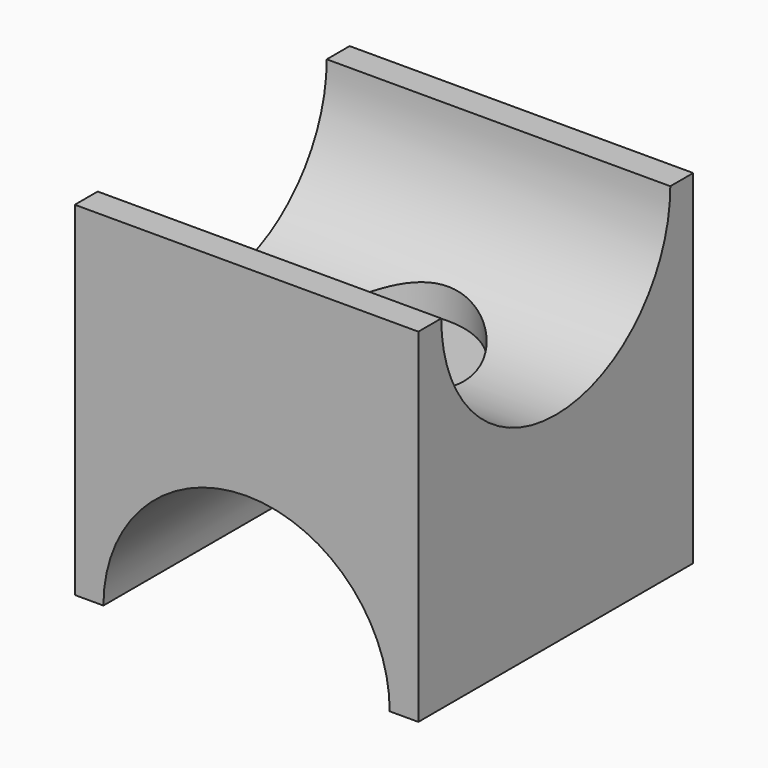
from build123d import *

# Parameters (mm, degrees)
BOX_W           = 30
BOX_H           = 30
BOX_DEPTH       = 30
SKETCH_R        = 3.5
POCKET_DEPTH    = 30.001
SKETCH004_R     = 7
POCKET001_DEPTH = 13
SKETCH001_R     = 7
POCKET002_DEPTH = 13
SKETCH003_R     = 12.5
POCKET003_DEPTH = 30.001
SKETCH002_R     = 12.5
POCKET004_DEPTH = 30.001


with BuildPart() as part:
    # Box → Box (new body)
    with BuildSketch(Plane.XY):
        with Locations((15, 15)):
            Rectangle(BOX_W, BOX_H)
    extrude(amount=BOX_DEPTH)

    # Sketch → Pocket (cut, through all)
    with BuildSketch(Plane.XY.offset(30)):
        with Locations((15, 15)):
            Circle(SKETCH_R)
    extrude(amount=-POCKET_DEPTH, mode=Mode.SUBTRACT)

    # Sketch004 → Pocket001 (cut)
    with BuildSketch(Plane.XY.offset(30)):
        with Locations((15, 15)):
            Circle(SKETCH004_R)
    extrude(amount=-POCKET001_DEPTH, mode=Mode.SUBTRACT)

    # Sketch001 → Pocket002 (cut)
    with BuildSketch(Plane(origin=(0, 0, 0), x_dir=(1, 0, 0), z_dir=(0, 0, -1))):
        with Locations((15, -15)):
            Circle(SKETCH001_R)
    extrude(amount=-POCKET002_DEPTH, mode=Mode.SUBTRACT)

    # Sketch003 → Pocket003 (cut, through all)
    with BuildSketch(Plane(origin=(0, 0, 0), x_dir=(0, -1, 0), z_dir=(-1, 0, 0))):
        with Locations((-15, 30)):
            Circle(SKETCH003_R)
    extrude(amount=-POCKET003_DEPTH, mode=Mode.SUBTRACT)

    # Sketch002 → Pocket004 (cut, through all)
    with BuildSketch(Plane.XZ):
        with Locations((15, 0)):
            Circle(SKETCH002_R)
    extrude(amount=-POCKET004_DEPTH, mode=Mode.SUBTRACT)


solid = part.part
